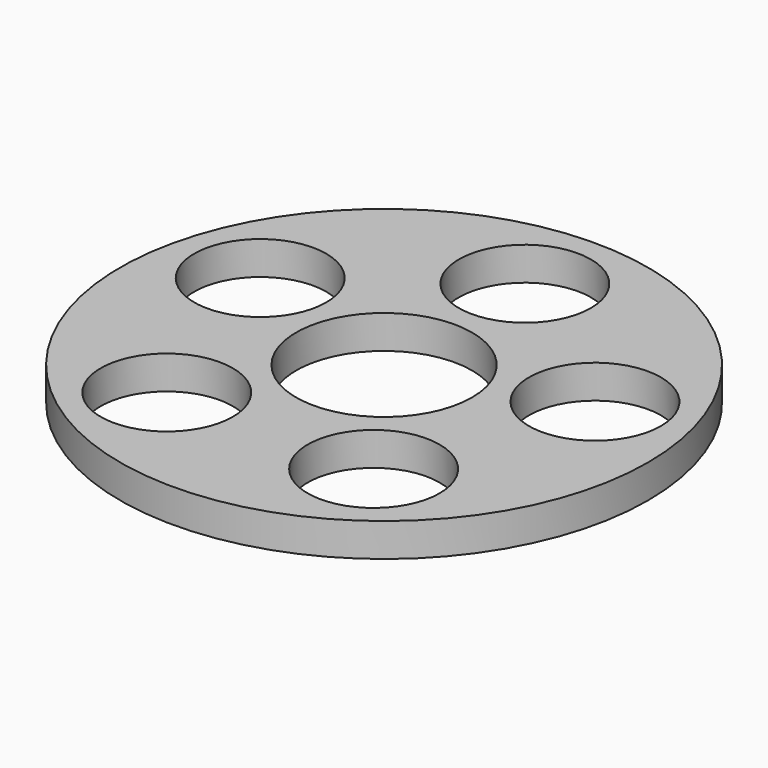
from build123d import *

# Parameters (mm, degrees)
F0_R     = 150
F1_DEPTH = 19
F2_R     = 50
F2_R_2   = 37.5
F3_DEPTH = 53


with BuildPart() as f1:
    # F0 (on Top) → F1 (new body)
    with BuildSketch(Plane.XY):
        Circle(F0_R)
    extrude(amount=F1_DEPTH)

    # F2 (on face) → F3 (cut)
    with BuildSketch(Plane.XY.offset(19)):
        Circle(F2_R)
        with Locations((0, 100)):
            Circle(F2_R_2)
        with Locations((-95.105652, 30.901699)):
            Circle(F2_R_2)
        with Locations((-58.778525, -80.901699)):
            Circle(F2_R_2)
        with Locations((58.778525, -80.901699)):
            Circle(F2_R_2)
        with Locations((95.105652, 30.901699)):
            Circle(F2_R_2)
    extrude(amount=-F3_DEPTH, mode=Mode.SUBTRACT)


solid = f1.part
